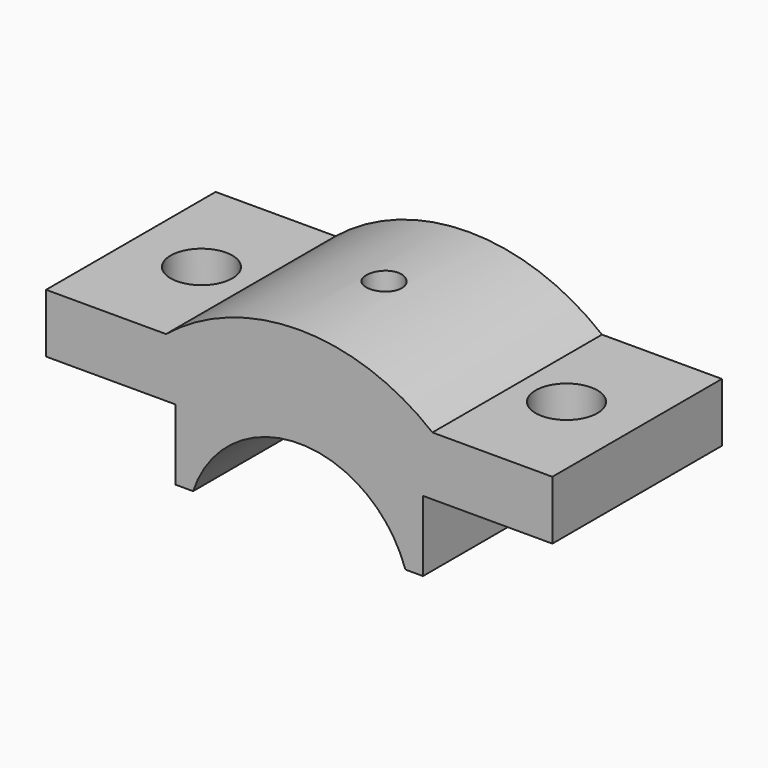
from build123d import *

# Parameters (mm, degrees)
F1_DEPTH = 18
F2_R     = 5.25
F3_DEPTH = 25


with BuildPart() as f1:
    # F0 (on Front) → F1 (new body, symmetric)
    with BuildSketch(Plane.XZ):
        with BuildLine():
            ThreePointArc((-18.027756, 6), (0, 19), (18.027756, 6))
            Line((18.027756, 6), (21.027756, 6))
            Line((21.027756, 6), (21.027756, 18))
            Line((21.027756, 18), (43, 18))
            Line((43, 18), (43, 28))
            Line((43, 28), (22.627417, 28))
            ThreePointArc((22.627417, 28), (0, 36), (-22.627417, 28))
            Line((-22.627417, 28), (-43, 28))
            Line((-43, 28), (-43, 18))
            Line((-43, 18), (-21.027756, 18))
            Line((-21.027756, 18), (-21.027756, 6))
            Line((-21.027756, 6), (-18.027756, 6))
        make_face()
    extrude(amount=F1_DEPTH, both=True)

    # F2 (on face) → F3 (cut)
    with BuildSketch(Plane.XY.offset(28)):
        with Locations((-31, 0)):
            Circle(F2_R)
        with Locations((31, 0)):
            Circle(F2_R)
    extrude(amount=-F3_DEPTH, mode=Mode.SUBTRACT)

    # F4 (on Front) → F5 (revolve, cut)
    with BuildSketch(Plane.XZ):
        Polygon((3, 40.073246), (0, 40.122432), (0, 17.161723), (1.5, 17.161723), (1.5, 24.356959), (3, 25.856959), align=None)
    revolve(axis=Axis((0, 0, 25.428471), (0, 0, -1)), mode=Mode.SUBTRACT)


solid = f1.part
